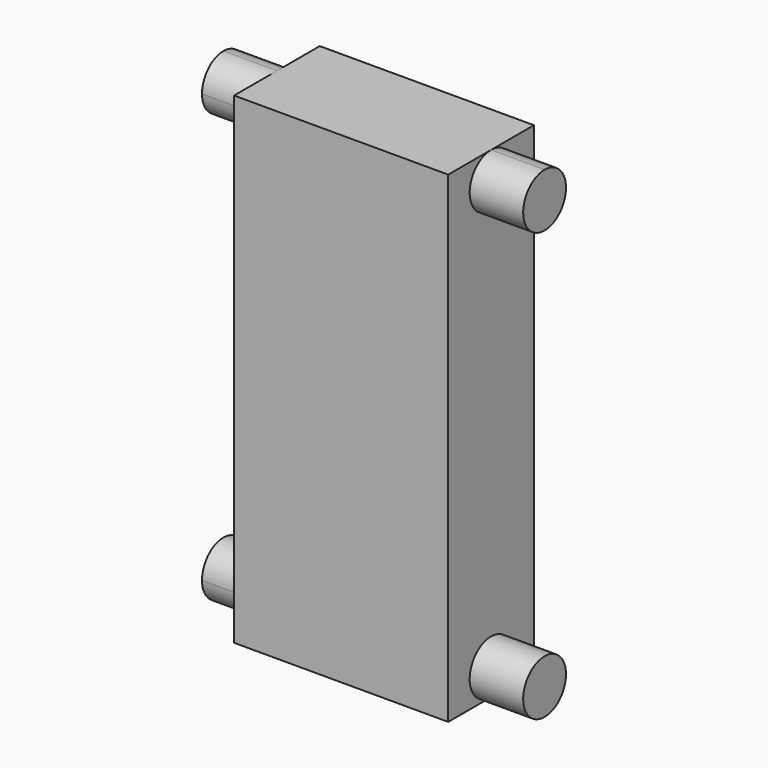
from build123d import *

# Parameters (mm, degrees)
F0_W     = 6.35
F0_H     = 12.7
F1_DEPTH = 3.175
F2_DEPTH = 0.79375
F3_DEPTH = 0.79375
F5_DEPTH = 1.5875
F7_DEPTH = 1.5875


with BuildPart() as f1:
    # F0 (on Front) → F1 (new body)
    with BuildSketch(Plane.XZ):
        with Locations((-39.4517260957, 26.0147806257)):
            Rectangle(F0_W, F0_H)
    extrude(amount=F1_DEPTH)

    # F2 (add): a face of the model
    f2_faces = [f1.faces().sort_by_distance(p)[0] for p in [
        (-39.4517260957, -1.5875, 19.6647806257),
    ]]
    extrude(f2_faces, amount=F2_DEPTH)

    # F3 (add): a face of the model
    f3_faces = [f1.faces().sort_by_distance(p)[0] for p in [
        (-39.4517260957, -1.5875, 32.3647806257),
    ]]
    extrude(f3_faces, amount=F3_DEPTH)

    # F4 (on face) → F5 (join)
    with BuildSketch(Plane(origin=(-42.6267260957, 0, 0), x_dir=(0, -1, 0), z_dir=(-1, 0, 0))):
        with BuildLine():
            ThreePointArc((1.5875, 33.1585306257), (1.0262339924, 31.8035146181), (2.38125, 32.3647806257))
            ThreePointArc((2.38125, 32.3647806257), (2.1487660076, 32.9260466333), (1.5875, 33.1585306257))
        make_face()
        with BuildLine():
            ThreePointArc((2.38125, 19.6647806257), (1.0262339924, 20.2260466333), (1.5875, 18.8710306257))
            ThreePointArc((1.5875, 18.8710306257), (2.1487660076, 19.1035146181), (2.38125, 19.6647806257))
        make_face()
    extrude(amount=F5_DEPTH)

    # F6 (on face) → F7 (join)
    with BuildSketch(Plane.YZ.offset(-36.2767260957)):
        with BuildLine():
            ThreePointArc((-1.5875, 33.1585306257), (-2.1487660076, 31.8035146181), (-0.79375, 32.3647806257))
            ThreePointArc((-0.79375, 32.3647806257), (-1.0262339924, 32.9260466333), (-1.5875, 33.1585306257))
        make_face()
        with BuildLine():
            ThreePointArc((-0.79375, 19.6647806257), (-2.1487660076, 20.2260466333), (-1.5875, 18.8710306257))
            ThreePointArc((-1.5875, 18.8710306257), (-1.0262339924, 19.1035146181), (-0.79375, 19.6647806257))
        make_face()
    extrude(amount=F7_DEPTH)


solid = f1.part
